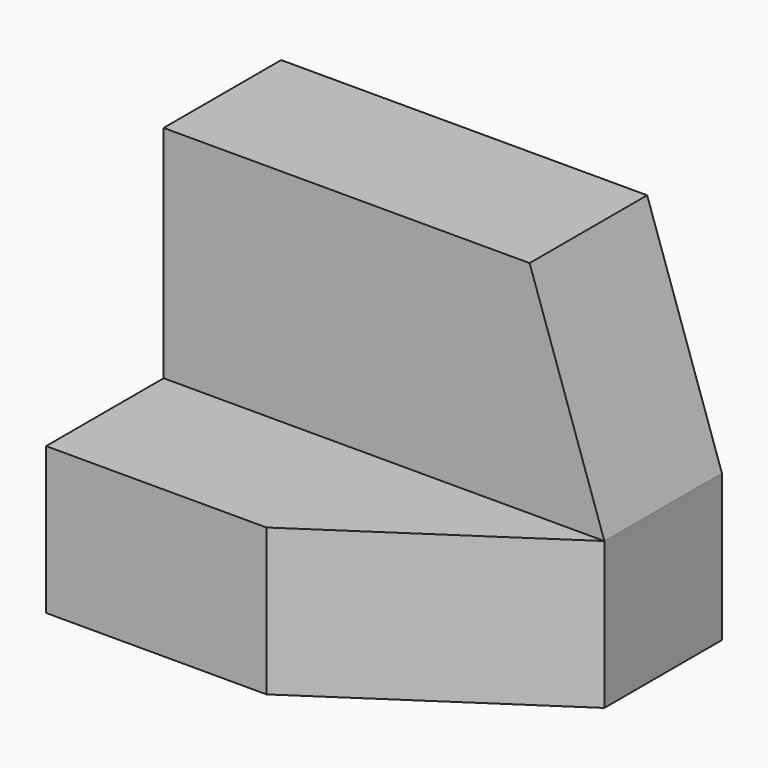
from build123d import *

# Parameters (mm, degrees)
F0_W     = 12.7
F0_H     = 12.7
F0_H_2   = 19.05
F1_DEPTH = 38.1
F4_DEPTH = 25.4
F6_DEPTH = 25.4


with BuildPart() as f1:
    # F0 (on Right) → F1 (new body)
    with BuildSketch(Plane.YZ):
        with Locations((6.35, -6.35)):
            Rectangle(F0_W, F0_H)
        with Locations((19.05, 9.525)):
            Rectangle(F0_W, F0_H_2)
        with Locations((19.05, -6.35)):
            Rectangle(F0_W, F0_H)
    extrude(amount=F1_DEPTH)

    # F3 (on face) → F4 (cut)
    with BuildSketch(Plane.XZ.offset(-12.7)):
        Polygon((38.1, 19.05), (31.637829, 19.05), (38.1, 0), align=None)
    extrude(amount=-F4_DEPTH, mode=Mode.SUBTRACT)

    # F5 (on face) → F6 (cut)
    with BuildSketch(Plane.XY):
        Polygon((38.1, 12.7), (19.05, 0), (38.1, 0), align=None)
    extrude(amount=-F6_DEPTH, mode=Mode.SUBTRACT)


solid = f1.part
